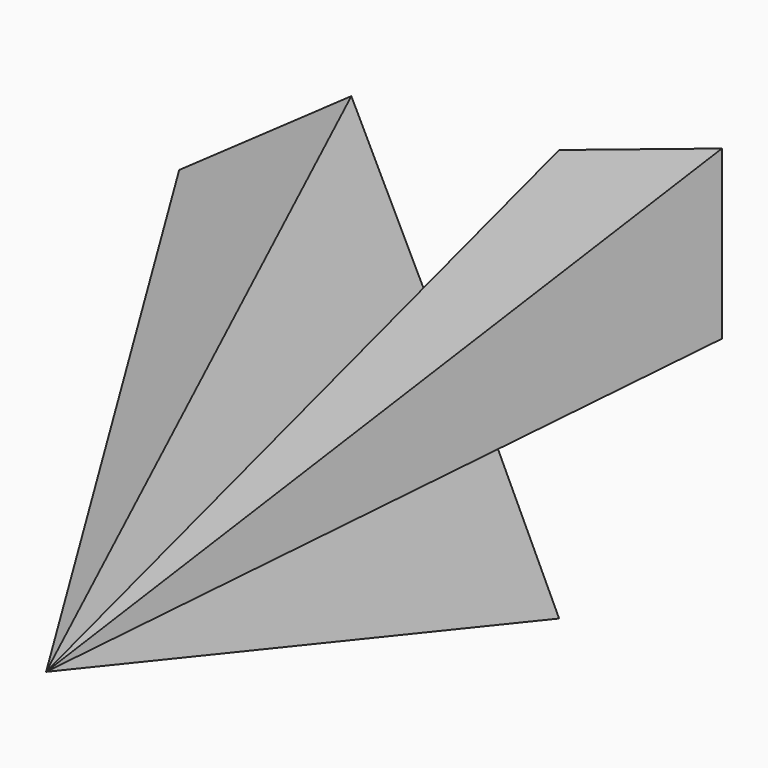
from build123d import *


with BuildPart() as f3:
    # F0 (on Front) → F3 section 0
    with BuildSketch(Plane.XZ, mode=Mode.PRIVATE) as f3_s0:
        Polygon((-23.524592, 45.471314), (-55.368856, 23.094265), (-34.139346, 10.758198), (-34.139346, -5.020492), (-34.139346, -34.856558), (-13.196721, -8.463115), (14.918035, -27.110657), (0, 4.446722), (45.040984, 28.258197), (45.040984, 59.241802), (14.918035, 49.200822), (28.114753, 33.995904), (-7.459017, 13.053278), align=None)
    loft([f3_s0.sketch, Vertex(0, -100, 0)])


solid = f3.part
